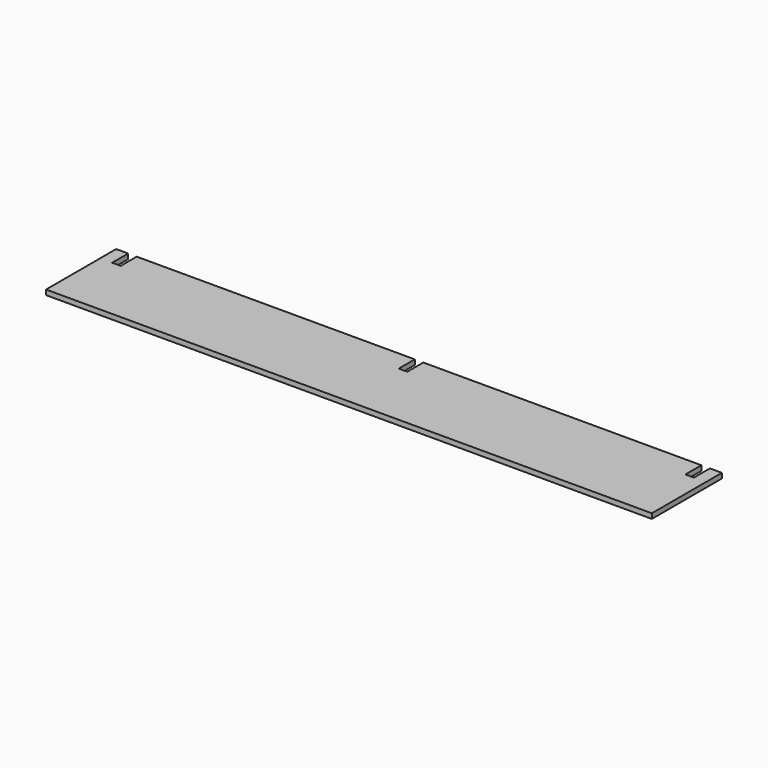
from build123d import *

# Parameters (mm, degrees)
F0_W     = 34
F0_H     = 80
F1_DEPTH = 10
F2_W     = 34
F2_H     = 80
F3_DEPTH = 25


with BuildPart() as f1:
    # F0 (on Top) → F1 (new body, symmetric)
    with BuildSketch(Plane.XY):
        Polygon((-1210, -175), (1210, -175), (1210, 175), (1162, 175), (1162, 95), (1128, 95), (1128, 175), (17, 175), (17, 95), (-17, 95), (-17, 175), (-1128, 175), (-1128, 95), (-1162, 95), (-1162, 175), (-1210, 175), align=None)
        with Locations((1145, 135)):
            Rectangle(F0_W, F0_H)
        with Locations((-1145, 135)):
            Rectangle(F0_W, F0_H)
        with Locations((0, 135)):
            Rectangle(F0_W, F0_H)
    extrude(amount=F1_DEPTH, both=True)

    # F2 (on face) → F3 (cut)
    with BuildSketch(Plane.XY.offset(10)):
        with Locations((-1145, 135)):
            Rectangle(F2_W, F2_H)
        with Locations((0, 135)):
            Rectangle(F2_W, F2_H)
        with Locations((1145, 135)):
            Rectangle(F2_W, F2_H)
    extrude(amount=-F3_DEPTH, mode=Mode.SUBTRACT)


solid = f1.part
